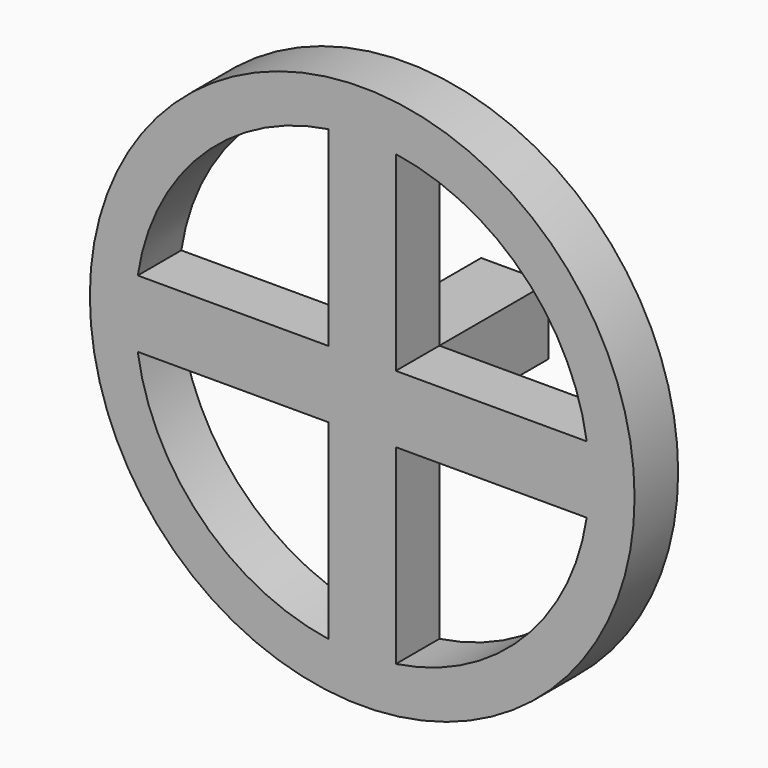
from build123d import *

# Parameters (mm, degrees)
F0_W     = 9.398
F0_H     = 9.398
F1_DEPTH = 19.05
F2_R     = 38.1
F3_DEPTH = 7.62


with BuildPart() as f1:
    # F0 (on Front) → F1 (new body)
    with BuildSketch(Plane.XZ):
        Rectangle(F0_W, F0_H)
    extrude(amount=F1_DEPTH)

    # F2 (on face) → F3 (join)
    with BuildSketch(Plane.XZ.offset(19.05)):
        Circle(F2_R)
        with BuildLine():
            Line((-31.400349, -4.699), (-4.699, -4.699))
            Line((-4.699, -4.699), (-4.699, -31.400349))
            ThreePointArc((-4.699, -31.400349), (-22.45064, -22.45064), (-31.400349, -4.699))
        make_face(mode=Mode.SUBTRACT)
        with BuildLine():
            Line((4.699, -31.400349), (4.699, -4.699))
            Line((4.699, -4.699), (31.400349, -4.699))
            ThreePointArc((31.400349, -4.699), (22.45064, -22.45064), (4.699, -31.400349))
        make_face(mode=Mode.SUBTRACT)
        with BuildLine():
            ThreePointArc((-31.400349, 4.699), (-22.45064, 22.45064), (-4.699, 31.400349))
            Line((-4.699, 31.400349), (-4.699, 4.699))
            Line((-4.699, 4.699), (-31.400349, 4.699))
        make_face(mode=Mode.SUBTRACT)
        with BuildLine():
            Line((31.400349, 4.699), (4.699, 4.699))
            Line((4.699, 4.699), (4.699, 31.400349))
            ThreePointArc((4.699, 31.400349), (22.45064, 22.45064), (31.400349, 4.699))
        make_face(mode=Mode.SUBTRACT)
    extrude(amount=F3_DEPTH)


solid = f1.part
